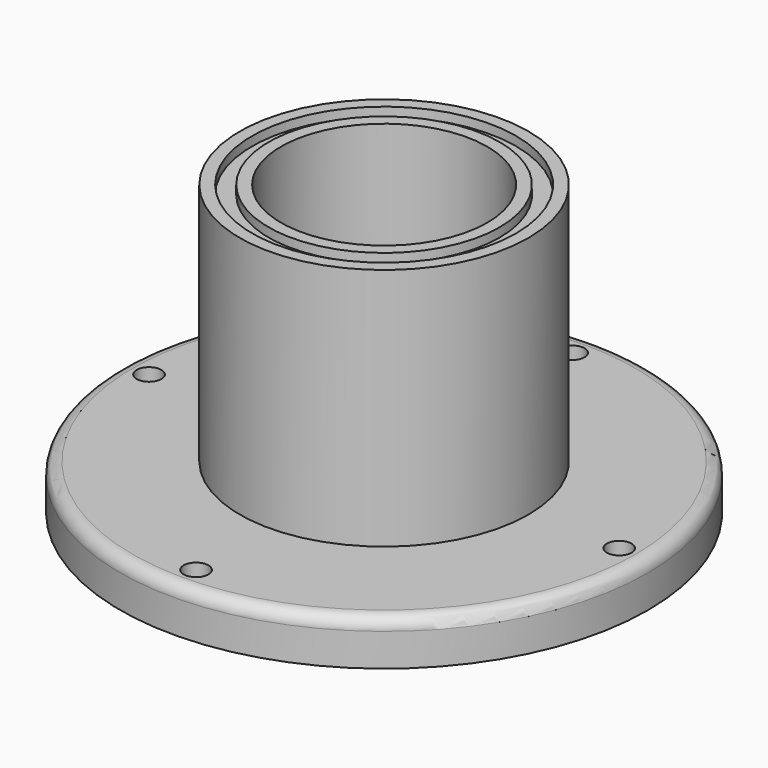
from build123d import *

# Parameters (mm, degrees)
F0_W   = 14.5
F0_H   = 5.4750965592
F0_W_2 = 5
F3_D   = 3
F4_R   = 1.5


with BuildPart() as f1:
    # F0 (on Front) → F1 (revolve)
    with BuildSketch(Plane.XZ):
        with Locations((24.75, 2.7375482796)):
            Rectangle(F0_W, F0_H)
        Polygon((12.5, 35), (12.5, 5.4750965592), (17.5, 5.4750965592), (17.5, 35), (16, 35), (16, 33.9), (14, 33.9), (14, 35), align=None)
        with Locations((15, 2.7375482796)):
            Rectangle(F0_W_2, F0_H)
    revolve(axis=Axis((0, 0, 26.583340019), (0, 0, 1)))

    # F3 (through all)
    with Locations(Plane(origin=(0, 0, 0), x_dir=(1, 0, 0), z_dir=(0, 0, -1))):
        with Locations((0, -28.5), (28.5, 0), (0, 28.5), (-28.5, 0)):
            Hole(F3_D / 2)

    # F4
    f4_edges = [f1.edges().sort_by_distance(p)[0] for p in [
        (-32, 0, 5.475097),
    ]]
    fillet(f4_edges, radius=F4_R)


solid = f1.part
